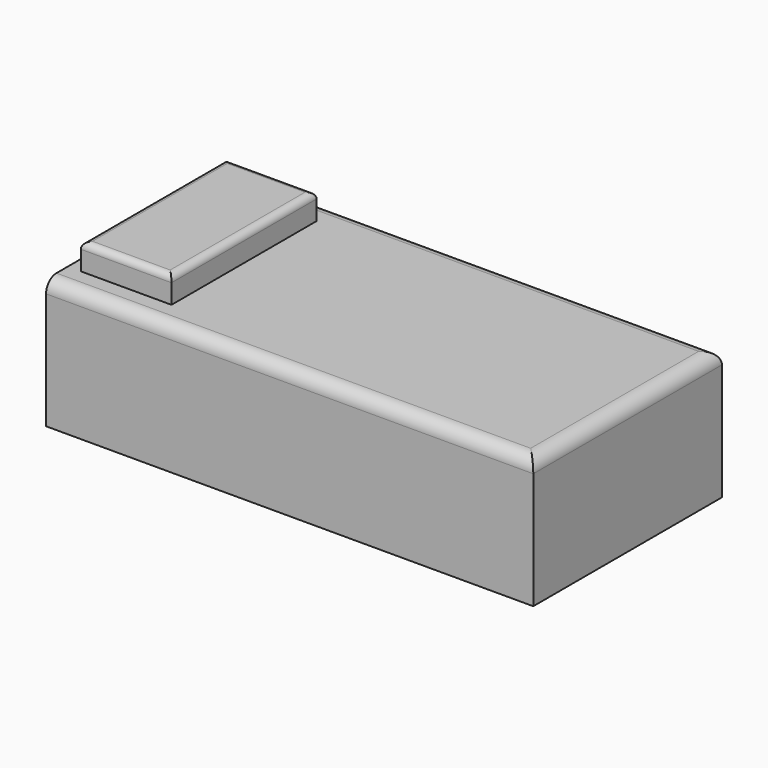
from build123d import *

# Parameters (mm, degrees)
F0_W     = 1880
F0_H     = 910
F1_DEPTH = 500
F2_W     = 350
F2_H     = 700
F3_DEPTH = 100
F4_R     = 25
F5_R     = 50


with BuildPart() as f1:
    # F0 (on Top) → F1 (new body)
    with BuildSketch(Plane.XY):
        with Locations((940, 455)):
            Rectangle(F0_W, F0_H)
    extrude(amount=F1_DEPTH)

    # F2 (on face) → F3 (join)
    with BuildSketch(Plane.XY.offset(500)):
        with Locations((225, 455)):
            Rectangle(F2_W, F2_H)
    extrude(amount=F3_DEPTH)

    # F4
    f4_edges = [f1.edges().sort_by_distance(p)[0] for p in [
        (50, 455, 600),
        (225, 105, 600),
        (400, 455, 600),
        (225, 805, 600),
    ]]
    fillet(f4_edges, radius=F4_R)

    # F5
    f5_edges = [f1.edges().sort_by_distance(p)[0] for p in [
        (940, 910, 500),
        (1880, 455, 500),
        (940, 0, 500),
    ]]
    fillet(f5_edges, radius=F5_R)


solid = f1.part
